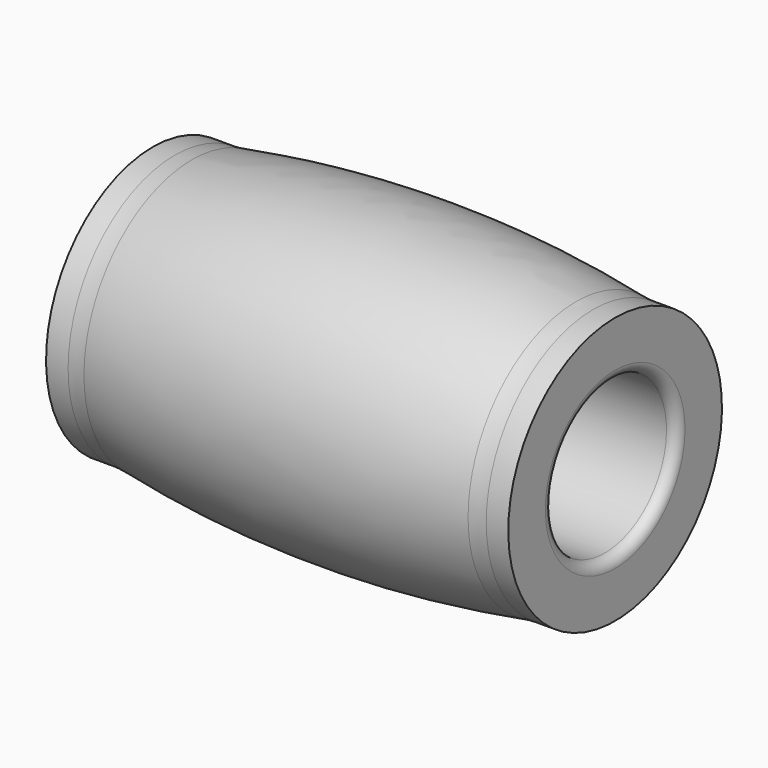
from build123d import *

# Parameters (mm, degrees)
F2_R = 10


with BuildPart() as f1:
    # F0 (on Front) → F1 (revolve)
    with BuildSketch(Plane.XZ):
        with BuildLine():
            Line((3, 13), (0, 13))
            Line((0, 13), (0, 8.5))
            ThreePointArc((0, 8.5), (0.292893, 7.792893), (1, 7.5))
            Line((1, 7.5), (44, 7.5))
            ThreePointArc((44, 7.5), (44.707107, 7.792893), (45, 8.5))
            Line((45, 8.5), (45, 13))
            Line((45, 13), (42, 13))
            ThreePointArc((42, 13), (22.5, 14.69766), (3, 13))
        make_face()
    revolve(axis=Axis((9.438974, 0, 0), (1, 0, 0)))

    # F2
    f2_edges = [f1.edges().sort_by_distance(p)[0] for p in [
        (3, 0, -13),
        (42, 0, -13),
    ]]
    fillet(f2_edges, radius=F2_R)


solid = f1.part
